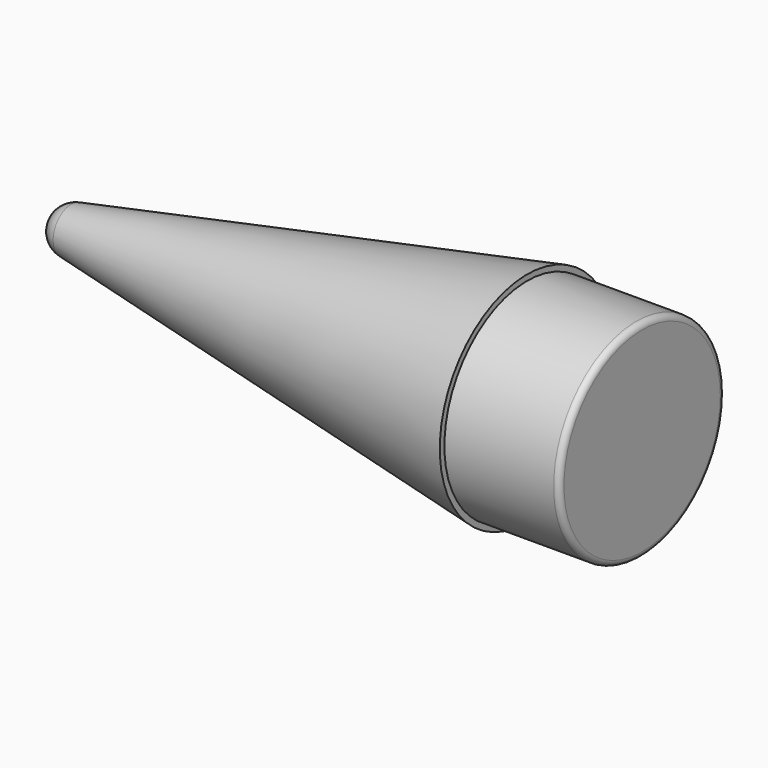
from build123d import *


with BuildPart() as f2:
    # F1 (on Top) → F2 (revolve)
    with BuildSketch(Plane.XY):
        with BuildLine():
            Line((25.4292626191, 0), (100, 0))
            Line((100, 0), (100, 18))
            Line((100, 18), (100, 19))
            Line((100, 19), (20.6826198503, 3.9296977715))
            ThreePointArc((20.6826198503, 3.9296977715), (23.9800888504, 3.0811175793), (25.4292626191, 0))
        make_face()
        with BuildLine():
            ThreePointArc((17.4292626191, 0), (21.4292626191, -4), (25.4292626191, 0))
            Line((25.4292626191, 0), (17.4292626191, 0))
        make_face()
        with BuildLine():
            Line((100, 18), (100, 0))
            Line((100, 0), (115, 0))
            Line((115, 0), (120, 0))
            Line((120, 0), (120, 17))
            ThreePointArc((120, 17), (119.7071067812, 17.7071067812), (119, 18))
            Line((119, 18), (100, 18))
        make_face()
    revolve(axis=Axis((57.5, 0, 0), (1, 0, 0)))


solid = f2.part
